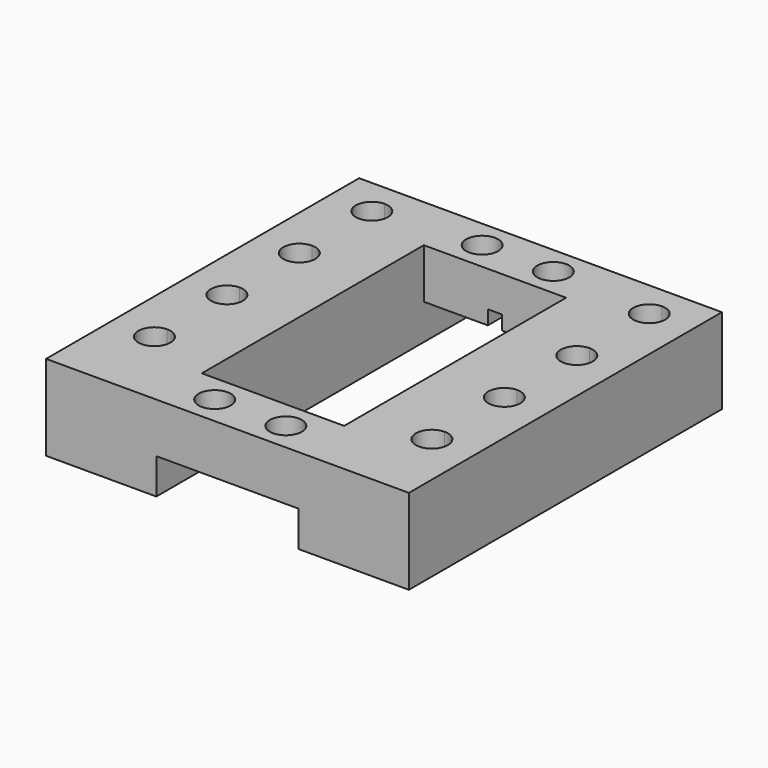
from build123d import *

# Parameters (mm, degrees)
F0_W     = 20
F0_H     = 8
F1_DEPTH = 12
F2_DEPTH = 5
F3_DEPTH = 5
F5_DEPTH = 2
F4_R     = 2.25
F6_DEPTH = 25
F8_DEPTH = 2
F7_R     = 2.25
F9_DEPTH = 25


with BuildPart() as f1:
    # F0 (on Top) → F1 (new body)
    with BuildSketch(Plane.XY):
        with Locations((25.5, -4)):
            Rectangle(F0_W, F0_H)
        with Locations((25.5, -51)):
            Rectangle(F0_W, F0_H)
        with BuildLine():
            Line((6, 0), (0, 0))
            Line((0, 0), (0, -55))
            Line((0, -55), (6, -55))
            Line((6, -55), (6, -45.71))
            ThreePointArc((6, -45.71), (3.75, -43.46), (6, -41.21))
            Line((6, -41.21), (6, -32.98))
            ThreePointArc((6, -32.98), (3.75, -30.73), (6, -28.48))
            Line((6, -28.48), (6, -20.25))
            ThreePointArc((6, -20.25), (3.75, -18), (6, -15.75))
            Line((6, -15.75), (6, -7.52))
            ThreePointArc((6, -7.52), (3.75, -5.27), (6, -3.02))
            Line((6, -3.02), (6, 0))
        make_face()
        with BuildLine():
            Line((51, 0), (45, 0))
            Line((45, 0), (45, -3.02))
            ThreePointArc((45, -3.02), (46.5909902577, -3.6790097423), (47.25, -5.27))
            ThreePointArc((47.25, -5.27), (46.5909902577, -6.8609902577), (45, -7.52))
            Line((45, -7.52), (45, -15.75))
            ThreePointArc((45, -15.75), (46.5909902577, -16.4090097423), (47.25, -18))
            ThreePointArc((47.25, -18), (46.5909902577, -19.5909902577), (45, -20.25))
            Line((45, -20.25), (45, -28.48))
            ThreePointArc((45, -28.48), (46.5909902577, -29.1390097423), (47.25, -30.73))
            ThreePointArc((47.25, -30.73), (46.5909902577, -32.3209902577), (45, -32.98))
            Line((45, -32.98), (45, -41.21))
            ThreePointArc((45, -41.21), (46.5909902577, -41.8690097423), (47.25, -43.46))
            ThreePointArc((47.25, -43.46), (46.5909902577, -45.0509902577), (45, -45.71))
            Line((45, -45.71), (45, -55))
            Line((45, -55), (51, -55))
            Line((51, -55), (51, 0))
        make_face()
        with BuildLine():
            Line((15.5, 0), (6, 0))
            Line((6, 0), (6, -3.02))
            ThreePointArc((6, -3.02), (7.5909902577, -3.6790097423), (8.25, -5.27))
            ThreePointArc((8.25, -5.27), (7.5909902577, -6.8609902577), (6, -7.52))
            Line((6, -7.52), (6, -15.75))
            ThreePointArc((6, -15.75), (7.5909902577, -16.4090097423), (8.25, -18))
            ThreePointArc((8.25, -18), (7.5909902577, -19.5909902577), (6, -20.25))
            Line((6, -20.25), (6, -28.48))
            ThreePointArc((6, -28.48), (7.5909902577, -29.1390097423), (8.25, -30.73))
            ThreePointArc((8.25, -30.73), (7.5909902577, -32.3209902577), (6, -32.98))
            Line((6, -32.98), (6, -41.21))
            ThreePointArc((6, -41.21), (7.5909902577, -41.8690097423), (8.25, -43.46))
            ThreePointArc((8.25, -43.46), (7.5909902577, -45.0509902577), (6, -45.71))
            Line((6, -45.71), (6, -55))
            Line((6, -55), (15.5, -55))
            Line((15.5, -55), (15.5, -47))
            Line((15.5, -47), (15.5, -8))
            Line((15.5, -8), (15.5, 0))
        make_face()
        with BuildLine():
            Line((45, 0), (35.5, 0))
            Line((35.5, 0), (35.5, -8))
            Line((35.5, -8), (35.5, -47))
            Line((35.5, -47), (35.5, -55))
            Line((35.5, -55), (45, -55))
            Line((45, -55), (45, -45.71))
            ThreePointArc((45, -45.71), (42.75, -43.46), (45, -41.21))
            Line((45, -41.21), (45, -32.98))
            ThreePointArc((45, -32.98), (42.75, -30.73), (45, -28.48))
            Line((45, -28.48), (45, -20.25))
            ThreePointArc((45, -20.25), (42.75, -18), (45, -15.75))
            Line((45, -15.75), (45, -7.52))
            ThreePointArc((45, -7.52), (42.75, -5.27), (45, -3.02))
            Line((45, -3.02), (45, 0))
        make_face()
    extrude(amount=F1_DEPTH)

    # F0 (on Top) → F2 (cut)
    with BuildSketch(Plane.XY):
        with Locations((25.5, -51)):
            Rectangle(F0_W, F0_H)
    extrude(amount=F2_DEPTH, mode=Mode.SUBTRACT)

    # F0 (on Top) → F3 (cut)
    with BuildSketch(Plane.XY):
        with Locations((25.5, -4)):
            Rectangle(F0_W, F0_H)
    extrude(amount=F3_DEPTH, mode=Mode.SUBTRACT)

    # F4 (on face) → F5 (cut)
    with BuildSketch(Plane(origin=(0, 0, 5), x_dir=(1, 0, 0), z_dir=(0, 0, -1))):
        Polygon((24.5, 47), (25.5, 47), (26.5, 47), (26.5, 52), (24.5, 52), align=None)
    extrude(amount=-F5_DEPTH, mode=Mode.SUBTRACT)

    # F4 (on face) → F6 (cut)
    with BuildSketch(Plane(origin=(0, 0, 5), x_dir=(1, 0, 0), z_dir=(0, 0, -1))):
        with Locations((20.5, 51)):
            Circle(F4_R)
        with Locations((30.5, 51)):
            Circle(F4_R)
    extrude(amount=-F6_DEPTH, mode=Mode.SUBTRACT)

    # F7 (on face) → F8 (cut)
    with BuildSketch(Plane(origin=(0, 0, 5), x_dir=(1, 0, 0), z_dir=(0, 0, -1))):
        Polygon((26.5, 8), (25.5, 8), (24.5, 8), (24.5, 3), (26.5, 3), align=None)
    extrude(amount=-F8_DEPTH, mode=Mode.SUBTRACT)

    # F7 (on face) → F9 (cut)
    with BuildSketch(Plane(origin=(0, 0, 5), x_dir=(1, 0, 0), z_dir=(0, 0, -1))):
        with Locations((30.5, 4)):
            Circle(F7_R)
        with Locations((20.5, 4)):
            Circle(F7_R)
    extrude(amount=-F9_DEPTH, mode=Mode.SUBTRACT)


solid = f1.part
